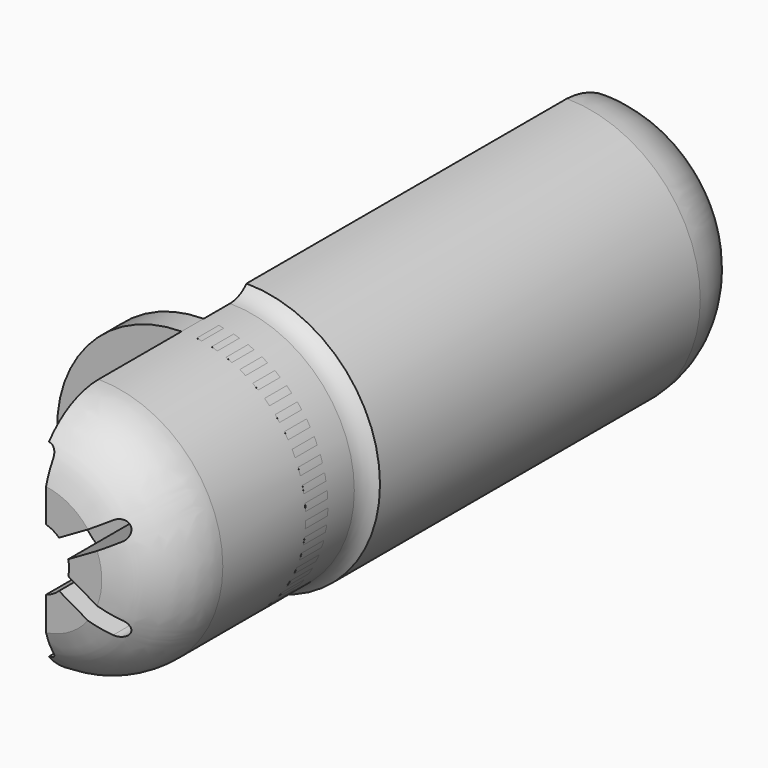
from build123d import *

# Parameters (mm, degrees)
F4_ANGLE  = 180
F6_DEPTH  = 90
F8_COUNT  = 6
F12_START = -20
F11_R     = 13.4913344195
F12_DEPTH = 3


with BuildPart() as f4:
    # F3 (on Right) → F4 (revolve)
    with BuildSketch(Plane.YZ):
        with BuildLine():
            Line((0.3716222048, 20.884835436), (81.3056033368, 20.884835436))
            ThreePointArc((81.3056033368, 20.884835436), (79.2480851868, 28.3977219469), (72.2783456923, 31.8761664331))
            Line((72.2783456923, 31.8761664331), (28.8201148927, 31.8761664331))
            ThreePointArc((28.8201148927, 31.8761664331), (27.8087917866, 31.1375536456), (26.5840469152, 30.8761664331))
            Line((26.5840469152, 30.8761664331), (8.8330505692, 30.8761664331))
            Line((8.8330505692, 30.8761664331), (8.7405150061, 30.8761664331))
            ThreePointArc((8.7405150061, 30.8761664331), (3.470465515, 29.0675325384), (0.3716222048, 24.4370089889))
            Line((0.3716222048, 24.4370089889), (0.3716222048, 20.884835436))
        make_face()
    revolve(axis=Axis((0, 40.3716222048, 17.384835436), (0, 1, 0)), revolution_arc=F4_ANGLE)


with BuildPart() as f6:
    # F5 (on Front) → F6 (new body)
    with BuildSketch(Plane.XZ):
        with BuildLine():
            ThreePointArc((1, 14.0307334698), (0, 13.884835436), (-1, 14.0307334698))
            Line((-1, 14.0307334698), (-1, 8.1346530026))
            ThreePointArc((-1, 8.1346530026), (-0.7071067812, 7.4275462214), (0, 7.1346530026))
            ThreePointArc((0, 7.1346530026), (0.7071067812, 7.4275462214), (1, 8.1346530026))
            Line((1, 8.1346530026), (1, 14.0307334698))
        make_face()
    extrude(amount=-F6_DEPTH)


with BuildPart() as f8_1:
    # F8: instance of F6
    add(f6.part.rotate(Axis((0, 20.536005497, 17.384835436), (0, 1, 0)), 1 * 360 / F8_COUNT))


with BuildPart() as f8_2:
    # F8: instance of F6
    add(f6.part.rotate(Axis((0, 20.536005497, 17.384835436), (0, 1, 0)), 2 * 360 / F8_COUNT))


with BuildPart() as f8_3:
    # F8: instance of F6
    add(f6.part.rotate(Axis((0, 20.536005497, 17.384835436), (0, 1, 0)), 3 * 360 / F8_COUNT))


with BuildPart() as f8_4:
    # F8: instance of F6
    add(f6.part.rotate(Axis((0, 20.536005497, 17.384835436), (0, 1, 0)), 4 * 360 / F8_COUNT))


with BuildPart() as f8_5:
    # F8: instance of F6
    add(f6.part.rotate(Axis((0, 20.536005497, 17.384835436), (0, 1, 0)), 5 * 360 / F8_COUNT))


with BuildPart() as f4_1:
    add(f4.part)

    # F9: cut F6, F8_5, F8_4, F8_3
    add(f6.part, mode=Mode.SUBTRACT)
    add(f8_5.part, mode=Mode.SUBTRACT)
    add(f8_4.part, mode=Mode.SUBTRACT)
    add(f8_3.part, mode=Mode.SUBTRACT)


with BuildPart() as f10:
    # F3 (on Right) → F10 (revolve)
    with BuildSketch(Plane.YZ):
        with BuildLine():
            Line((0.3716222048, 20.884835436), (81.3056033368, 20.884835436))
            ThreePointArc((81.3056033368, 20.884835436), (79.2480851868, 28.3977219469), (72.2783456923, 31.8761664331))
            Line((72.2783456923, 31.8761664331), (28.8201148927, 31.8761664331))
            ThreePointArc((28.8201148927, 31.8761664331), (27.8087917866, 31.1375536456), (26.5840469152, 30.8761664331))
            Line((26.5840469152, 30.8761664331), (8.8330505692, 30.8761664331))
            Line((8.8330505692, 30.8761664331), (8.7405150061, 30.8761664331))
            ThreePointArc((8.7405150061, 30.8761664331), (3.470465515, 29.0675325384), (0.3716222048, 24.4370089889))
            Line((0.3716222048, 24.4370089889), (0.3716222048, 20.884835436))
        make_face()
    revolve(axis=Axis((0, 40.3716222048, 17.384835436), (0, 1, 0)))

    # F13: cut F6, F8_5, F8_4, F8_3, F8_2, F8_1
    add(f6.part, mode=Mode.SUBTRACT)
    add(f8_5.part, mode=Mode.SUBTRACT)
    add(f8_4.part, mode=Mode.SUBTRACT)
    add(f8_3.part, mode=Mode.SUBTRACT)
    add(f8_2.part, mode=Mode.SUBTRACT)
    add(f8_1.part, mode=Mode.SUBTRACT)


with BuildPart() as f12:
    # F11 (on Front) → F12 (new body)
    with BuildSketch(Plane.XZ.offset(F12_START)):
        with Locations((0, 17.384835436)):
            Circle(F11_R)
    extrude(amount=-F12_DEPTH)


with BuildPart() as f10_1:
    add(f10.part)

    # F14: intersect F12
    add(f12.part, mode=Mode.INTERSECT)


solid = Compound([f4_1.part, f10_1.part])
